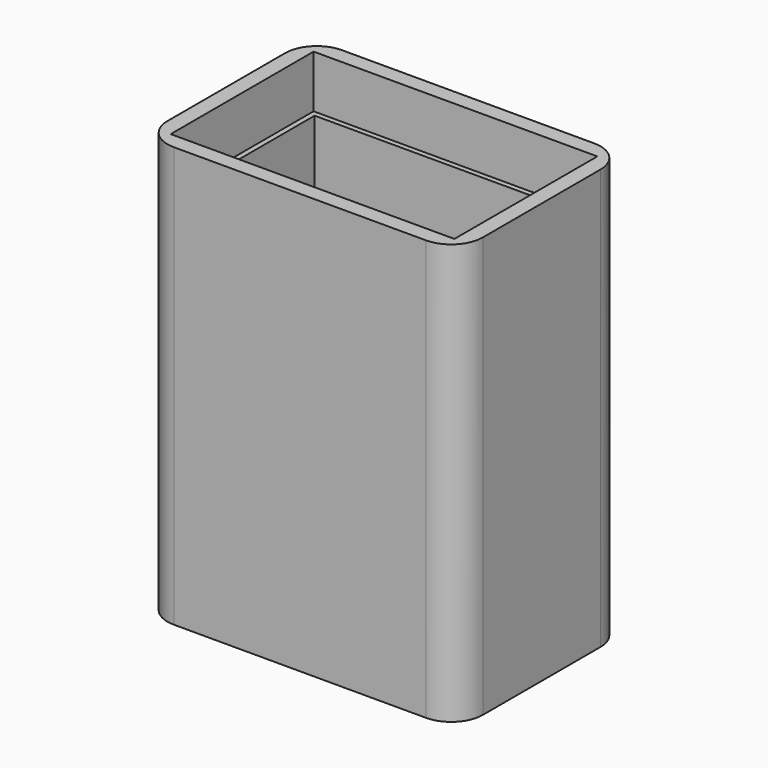
from build123d import *

# Parameters (mm, degrees)
F0_W     = 30
F0_H     = 20
F1_DEPTH = 40
F2_W     = 26
F2_H     = 16
F3_DEPTH = 38
F4_W     = 27
F4_H     = 17
F5_DEPTH = 5
F6_R     = 3


with BuildPart() as f1:
    # F0 (on Top) → F1 (new body)
    with BuildSketch(Plane.XY):
        with Locations((-5.625001, 19.210285)):
            Rectangle(F0_W, F0_H)
    extrude(amount=F1_DEPTH)

    # F2 (on face) → F3 (cut)
    with BuildSketch(Plane.XY.offset(40)):
        with Locations((-5.625001, 19.210285)):
            Rectangle(F2_W, F2_H)
    extrude(amount=-F3_DEPTH, mode=Mode.SUBTRACT)

    # F4 (on face) → F5 (cut)
    with BuildSketch(Plane.XY.offset(40)):
        with Locations((-5.625001, 19.210285)):
            Rectangle(F4_W, F4_H)
    extrude(amount=-F5_DEPTH, mode=Mode.SUBTRACT)

    # F6
    f6_edges = [f1.edges().sort_by_distance(p)[0] for p in [
        (-20.625001, 9.210285, 20),
        (-20.625001, 29.210285, 20),
        (9.374999, 9.210285, 20),
        (9.374999, 29.210285, 20),
    ]]
    fillet(f6_edges, radius=F6_R)


solid = f1.part
